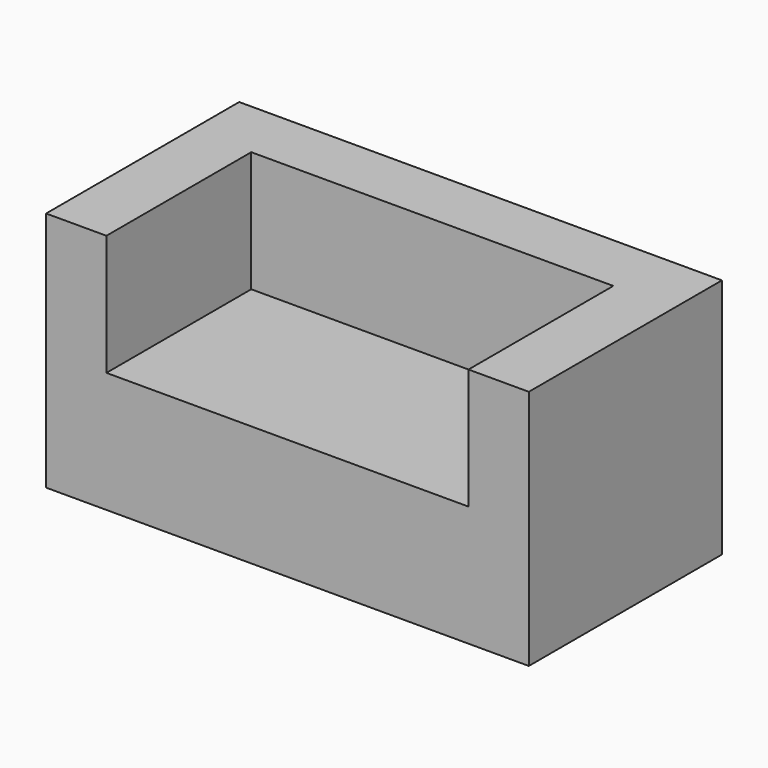
from build123d import *

# Parameters (mm, degrees)
F0_W     = 101.6
F0_H     = 101.6
F1_DEPTH = 203.2
F2_W     = 152.4
F2_H     = 50.8
F3_DEPTH = 76.2
F4_ANGLE = 90


with BuildPart() as f1:
    # F0 (on Front) → F1 (new body)
    with BuildSketch(Plane.XZ):
        with Locations((50.8, 50.8)):
            Rectangle(F0_W, F0_H)
    extrude(amount=F1_DEPTH)

    # F2 (on face) → F3 (cut)
    with BuildSketch(Plane(origin=(0, 0, 0), x_dir=(0, -1, 0), z_dir=(-1, 0, 0))):
        with Locations((101.6, 76.2)):
            Rectangle(F2_W, F2_H)
    extrude(amount=-F3_DEPTH, mode=Mode.SUBTRACT)


with BuildPart() as f1_1:
    # F4: moved
    add(f1.part.rotate(Axis((101.6, -203.2, 50.8), (0, 0, 1)), F4_ANGLE))


solid = f1_1.part
